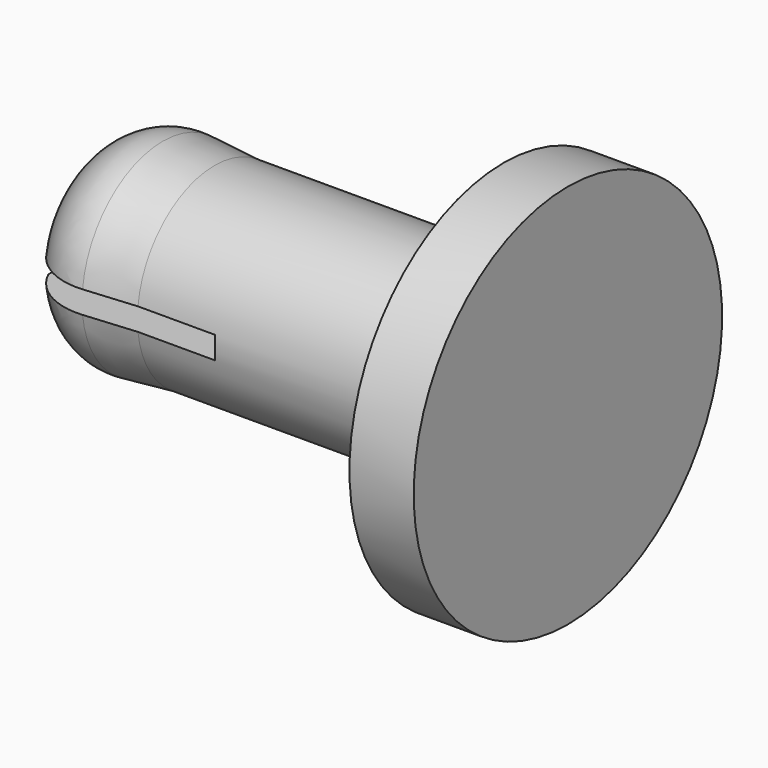
from build123d import *

# Parameters (mm, degrees)
F3_DEPTH = 6
F4_R     = 1


with BuildPart() as f1:
    # F0 (on Front) → F1 (revolve)
    with BuildSketch(Plane.XZ):
        with BuildLine():
            Line((-14.5940445242, 0), (0, 0))
            Line((0, 0), (0, 6))
            Line((0, 6), (-2, 6))
            Line((-2, 6), (-2, 3))
            Line((-2, 3), (-11, 3))
            Line((-11, 3), (-12.6100640914, 3.1408623555))
            ThreePointArc((-12.6100640914, 3.1408623555), (-13.7813661664, 2.8822577685), (-14.5940445242, 2))
            Line((-14.5940445242, 2), (-14.5940445242, 0))
        make_face()
    revolve(axis=Axis((-7.2970222621, 0, 0), (1, 0, 0)))

    # F2 (on face) → F3 (cut)
    with BuildSketch(Plane(origin=(-14.5940445242, 0, 0), x_dir=(0, -1, 0), z_dir=(-1, 0, 0))):
        with BuildLine():
            ThreePointArc((-1.9691368668, -0.35), (-2, 0), (-1.9691368668, 0.35))
            Line((-1.9691368668, 0.35), (-4, 0.35))
            Line((-4, 0.35), (-4, -0.35))
            Line((-4, -0.35), (-2.9795133831, -0.35))
            Line((-2.9795133831, -0.35), (-1.9691368668, -0.35))
        make_face()
        with BuildLine():
            Line((1.9691368668, 0.35), (0.25, 0.35))
            Line((0.25, 0.35), (0.25, 0))
            Line((0.25, 0), (0.25, -0.35))
            Line((0.25, -0.35), (1.9691368668, -0.35))
            ThreePointArc((1.9691368668, -0.35), (1.9922692757, -0.1756790632), (2, 0))
            ThreePointArc((2, 0), (1.9922692757, 0.1756790632), (1.9691368668, 0.35))
        make_face()
        with BuildLine():
            Line((-0.25, 0), (-0.25, 0.35))
            Line((-0.25, 0.35), (-1.9691368668, 0.35))
            ThreePointArc((-1.9691368668, 0.35), (-2, 0), (-1.9691368668, -0.35))
            Line((-1.9691368668, -0.35), (-0.25, -0.35))
            Line((-0.25, -0.35), (-0.25, 0))
        make_face()
        Polygon((0.25, 0), (0.25, 0.35), (-0.25, 0.35), (-0.25, 0), (-0.25, -0.35), (0.25, -0.35), align=None)
        with BuildLine():
            Line((4, 0.35), (1.9691368668, 0.35))
            ThreePointArc((1.9691368668, 0.35), (1.9922692757, 0.1756790632), (2, 0))
            ThreePointArc((2, 0), (1.9922692757, -0.1756790632), (1.9691368668, -0.35))
            Line((1.9691368668, -0.35), (2.9795133831, -0.35))
            Line((2.9795133831, -0.35), (4, -0.35))
            Line((4, -0.35), (4, 0.35))
        make_face()
        with BuildLine():
            ThreePointArc((-1.9691368668, -0.35), (-2, 0), (-1.9691368668, 0.35))
            Line((-1.9691368668, 0.35), (-4, 0.35))
            Line((-4, 0.35), (-4, -0.35))
            Line((-4, -0.35), (-2.9795133831, -0.35))
            Line((-2.9795133831, -0.35), (-1.9691368668, -0.35))
        make_face()
        with BuildLine():
            Line((1.9691368668, 0.35), (0.25, 0.35))
            Line((0.25, 0.35), (0.25, 0))
            Line((0.25, 0), (0.25, -0.35))
            Line((0.25, -0.35), (1.9691368668, -0.35))
            ThreePointArc((1.9691368668, -0.35), (1.9922692757, -0.1756790632), (2, 0))
            ThreePointArc((2, 0), (1.9922692757, 0.1756790632), (1.9691368668, 0.35))
        make_face()
    extrude(amount=-F3_DEPTH, mode=Mode.SUBTRACT)

    # F4
    f4_edges = [f1.edges().sort_by_distance(p)[0] for p in [
        (-2, 0, -3),
    ]]
    fillet(f4_edges, radius=F4_R)


solid = f1.part
